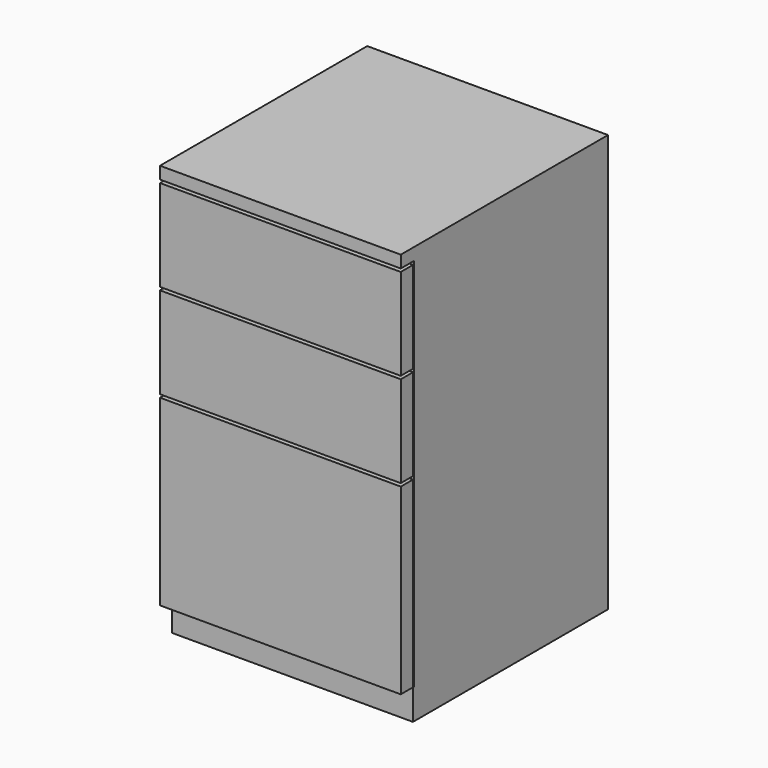
from build123d import *

# Parameters (mm, degrees)
F0_W     = 395
F0_H     = 425
F1_DEPTH = 685
F2_W     = 395
F2_H     = 5
F2_H_2   = 50
F3_DEPTH = 25
F4_W     = 2
F4_H     = 615
F5_DEPTH = 395.001


with BuildPart() as f1:
    # F0 (on Top) → F1 (new body)
    with BuildSketch(Plane.XY):
        Rectangle(F0_W, F0_H)
    extrude(amount=F1_DEPTH)

    # F2 (on face) → F3 (cut)
    with BuildSketch(Plane.XZ.offset(212.5)):
        with Locations((0, 352.5)):
            Rectangle(F2_W, F2_H)
        with Locations((0, 662.5)):
            Rectangle(F2_W, F2_H)
        with Locations((0, 507.5)):
            Rectangle(F2_W, F2_H)
        with Locations((0, 25)):
            Rectangle(F2_W, F2_H_2)
    extrude(amount=-F3_DEPTH, mode=Mode.SUBTRACT)

    # F4 (on face) → F5 (cut, through all)
    with BuildSketch(Plane(origin=(-197.5, 0, 0), x_dir=(0, -1, 0), z_dir=(-1, 0, 0))):
        with Locations((186.5, 357.5)):
            Rectangle(F4_W, F4_H)
    extrude(amount=-F5_DEPTH, mode=Mode.SUBTRACT)


solid = f1.part
